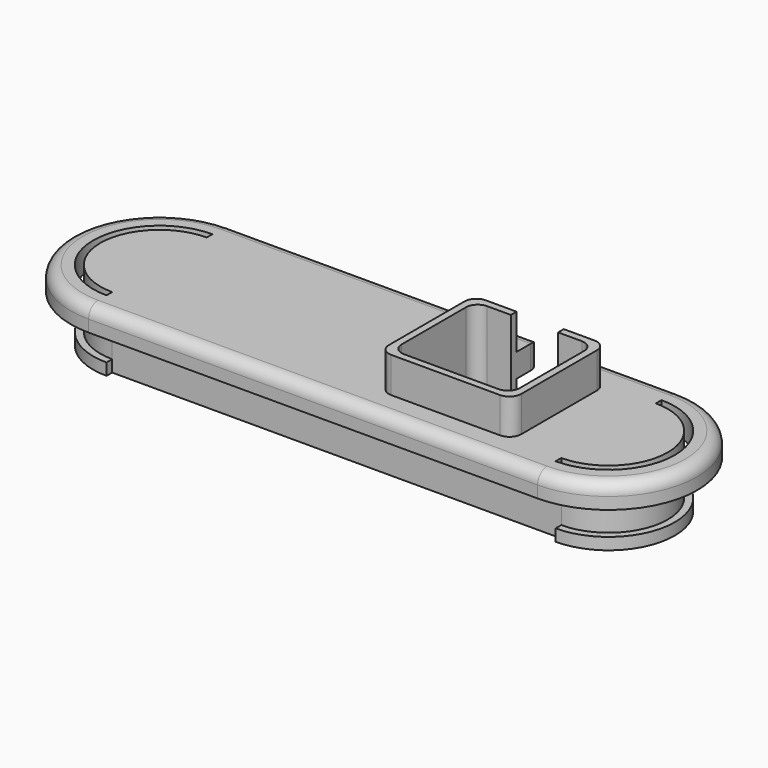
from build123d import *

# Parameters (mm, degrees)
F0_W     = 22.6132244859
F0_H     = 0.6
F0_W_2   = 4.1867755141
F0_W_3   = 10
F0_W_4   = 3
F1_DEPTH = 2
F2_DEPTH = 4
F3_START = -3
F3_DEPTH = 1
F4_DEPTH = 5
F5_R     = 1


with BuildPart() as f1:
    # F0 (on Top) → F1 (new body)
    with BuildSketch(Plane.XY):
        with BuildLine():
            ThreePointArc((-19, -5.6), (-24.6, 0), (-19, 5.6))
            Line((-19, 5.6), (3.6132244859, 5.6))
            Line((3.6132244859, 5.6), (7.2132244859, 5.6))
            Line((7.2132244859, 5.6), (7.2132244859, 7.5))
            Line((7.2132244859, 7.5), (-19, 7.5))
            ThreePointArc((-19, 7.5), (-26.5, 0), (-19, -7.5))
            Line((-19, -7.5), (19, -7.5))
            ThreePointArc((19, -7.5), (26.5, 0), (19, 7.5))
            Line((19, 7.5), (11.2132244859, 7.5))
            Line((11.2132244859, 7.5), (11.2132244859, 5.6))
            Line((11.2132244859, 5.6), (14.8132244859, 5.6))
            Line((14.8132244859, 5.6), (19, 5.6))
            ThreePointArc((19, 5.6), (24.6, 0), (19, -5.6))
            Line((19, -5.6), (14.8132244859, -5.6))
            Line((14.8132244859, -5.6), (3.6132244859, -5.6))
            Line((3.6132244859, -5.6), (-19, -5.6))
        make_face()
        with Locations((-7.6933877571, 5.3)):
            Rectangle(F0_W, F0_H)
        with Locations((16.9066122429, 5.3)):
            Rectangle(F0_W_2, F0_H)
        with Locations((-7.6933877571, -5.3)):
            Rectangle(F0_W, F0_H)
        with Locations((16.9066122429, -5.3)):
            Rectangle(F0_W_2, F0_H)
        with BuildLine():
            Line((3.6132244859, 5), (-19, 5))
            ThreePointArc((-19, 5), (-24, 0), (-19, -5))
            Line((-19, -5), (3.6132244859, -5))
            Line((3.6132244859, -5), (3.6132244859, 5))
        make_face()
        Polygon((4.2132244859, 5), (3.6132244859, 5), (3.6132244859, -5), (4.2132244859, -5), (4.2132244859, -4.4), (4.2132244859, 4.4), align=None)
        Polygon((3.6132244859, 5.6), (3.6132244859, 5), (4.2132244859, 5), (7.2132244859, 5), (7.2132244859, 5.6), align=None)
        with BuildLine():
            Line((14.8132244859, 5), (14.8132244859, -5))
            Line((14.8132244859, -5), (19, -5))
            ThreePointArc((19, -5), (24, 0), (19, 5))
            Line((19, 5), (14.8132244859, 5))
        make_face()
        Polygon((4.2132244859, -5), (3.6132244859, -5), (3.6132244859, -5.6), (14.8132244859, -5.6), (14.8132244859, -5), (14.2132244859, -5), align=None)
        Polygon((14.2132244859, -4.4), (14.2132244859, -5), (14.8132244859, -5), (14.8132244859, 5), (14.2132244859, 5), (14.2132244859, 4.4), align=None)
        Polygon((14.2132244859, 5), (14.8132244859, 5), (14.8132244859, 5.6), (11.2132244859, 5.6), (11.2132244859, 5), align=None)
        with Locations((9.2132244859, -4.7)):
            Rectangle(F0_W_3, F0_H)
        with Locations((5.7132244859, 4.7)):
            Rectangle(F0_W_4, F0_H)
        with Locations((12.7132244859, 4.7)):
            Rectangle(F0_W_4, F0_H)
    extrude(amount=F1_DEPTH)

    # F0 (on Top) → F2 (join)
    with BuildSketch(Plane.XY):
        with BuildLine():
            Line((3.6132244859, 5), (-19, 5))
            ThreePointArc((-19, 5), (-24, 0), (-19, -5))
            Line((-19, -5), (3.6132244859, -5))
            Line((3.6132244859, -5), (3.6132244859, 5))
        make_face()
        with BuildLine():
            Line((14.8132244859, 5), (14.8132244859, -5))
            Line((14.8132244859, -5), (19, -5))
            ThreePointArc((19, -5), (24, 0), (19, 5))
            Line((19, 5), (14.8132244859, 5))
        make_face()
        Polygon((4.2132244859, 5), (3.6132244859, 5), (3.6132244859, -5), (4.2132244859, -5), (4.2132244859, -4.4), (4.2132244859, 4.4), align=None)
        Polygon((14.2132244859, -4.4), (14.2132244859, -5), (14.8132244859, -5), (14.8132244859, 5), (14.2132244859, 5), (14.2132244859, 4.4), align=None)
        with Locations((9.2132244859, -4.7)):
            Rectangle(F0_W_3, F0_H)
        with Locations((5.7132244859, 4.7)):
            Rectangle(F0_W_4, F0_H)
        with Locations((12.7132244859, 4.7)):
            Rectangle(F0_W_4, F0_H)
    extrude(amount=-F2_DEPTH)

    # F0 (on Top) → F3 (join)
    with BuildSketch(Plane.XY.offset(F3_START)):
        with BuildLine():
            ThreePointArc((-19, -5), (-24, 0), (-19, 5))
            Line((-19, 5), (-19, 5.6))
            ThreePointArc((-19, 5.6), (-24.6, 0), (-19, -5.6))
            Line((-19, -5.6), (-19, -5))
        make_face()
        with BuildLine():
            Line((19, -5), (19, -5.6))
            ThreePointArc((19, -5.6), (24.6, 0), (19, 5.6))
            Line((19, 5.6), (19, 5))
            ThreePointArc((19, 5), (24, 0), (19, -5))
        make_face()
    extrude(amount=-F3_DEPTH)

    # F0 (on Top) → F4 (join)
    with BuildSketch(Plane.XY):
        Polygon((4.2132244859, 5), (3.6132244859, 5), (3.6132244859, -5), (4.2132244859, -5), (4.2132244859, -4.4), (4.2132244859, 4.4), align=None)
        Polygon((14.2132244859, -4.4), (14.2132244859, -5), (14.8132244859, -5), (14.8132244859, 5), (14.2132244859, 5), (14.2132244859, 4.4), align=None)
        with Locations((9.2132244859, -4.7)):
            Rectangle(F0_W_3, F0_H)
        with Locations((5.7132244859, 4.7)):
            Rectangle(F0_W_4, F0_H)
        with Locations((12.7132244859, 4.7)):
            Rectangle(F0_W_4, F0_H)
    extrude(amount=F4_DEPTH)

    # F5
    f5_edges = [f1.edges().sort_by_distance(p)[0] for p in [
        (11.213224, 7.5, 1),
        (7.213224, 7.5, 1),
        (0, -7.5, 2),
        (4.213224, -4.4, 0.5),
        (14.213224, -4.4, 0.5),
        (3.613224, -5, 3.5),
        (14.813224, -5, 3.5),
        (14.813224, 5, 3.5),
        (3.613224, 5, 3.5),
        (4.213224, 4.4, 0.5),
        (14.213224, 4.4, 0.5),
    ]]
    fillet(f5_edges, radius=F5_R)


solid = f1.part
